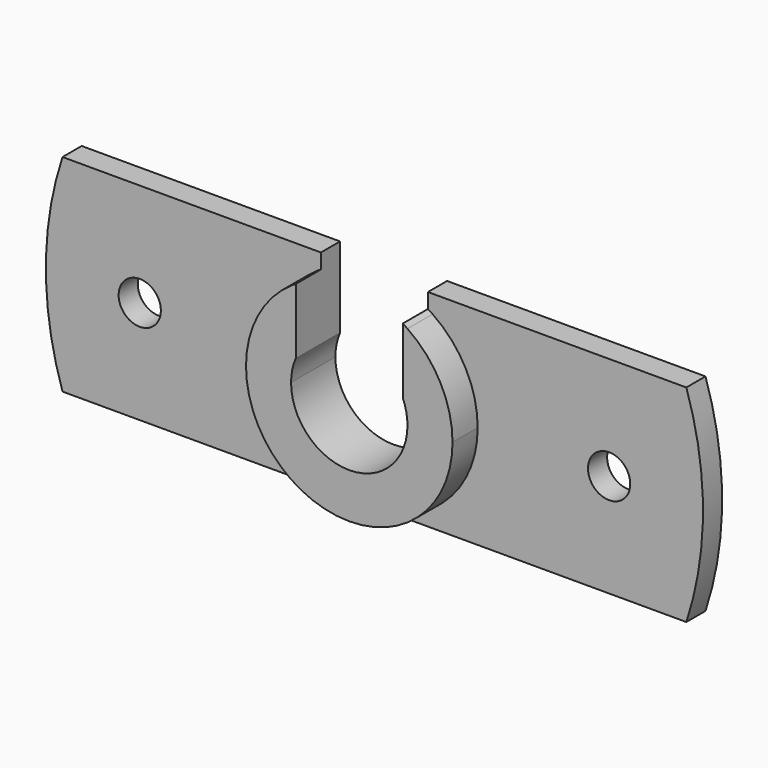
from build123d import *

# Parameters (mm, degrees)
F1_DEPTH = 5.9
F0_R     = 2.25
F2_DEPTH = 2.55


with BuildPart() as f1:
    # F0 (on Front) → F1 (new body)
    with BuildSketch(Plane.XZ):
        with BuildLine():
            ThreePointArc((56.2, 50), (50, 43.8), (43.8, 50))
            Line((43.8, 50), (43.8, 59.0862533533))
            ThreePointArc((43.8, 59.0862533533), (39.4893200295, 46.7556808793), (50, 39))
            ThreePointArc((50, 39), (57.7781745931, 42.2218254069), (61, 50))
            ThreePointArc((61, 50), (59.7262531326, 55.1380930315), (56.2, 59.0862533533))
            Line((56.2, 59.0862533533), (56.2, 50))
        make_face()
        with BuildLine():
            ThreePointArc((55.7, 52.4392621835), (56.0737138556, 51.2449899598), (56.2, 50))
            Line((56.2, 50), (56.2, 59.0862533533))
            ThreePointArc((56.2, 59.0862533533), (55.9521740784, 59.250493162), (55.7, 59.4079753401))
            Line((55.7, 59.4079753401), (55.7, 52.4392621835))
        make_face()
        with BuildLine():
            Line((43.8, 59.0862533533), (43.8, 50))
            ThreePointArc((43.8, 50), (43.9262861444, 51.2449899598), (44.3, 52.4392621835))
            Line((44.3, 52.4392621835), (44.3, 59.4079753401))
            ThreePointArc((44.3, 59.4079753401), (44.0478259216, 59.250493162), (43.8, 59.0862533533))
        make_face()
    extrude(amount=F1_DEPTH)

    # F0 (on Front) → F2 (join)
    with BuildSketch(Plane.XZ):
        with BuildLine():
            ThreePointArc((50, 39), (39.4893200295, 46.7556808793), (43.8, 59.0862533533))
            Line((43.8, 59.0862533533), (43.8, 61))
            Line((43.8, 61), (16.7735045483, 61))
            ThreePointArc((16.7735045483, 61), (15, 50), (16.7735045483, 39))
            Line((16.7735045483, 39), (50, 39))
        make_face()
        with Locations((25, 50)):
            Circle(F0_R, mode=Mode.SUBTRACT)
        with BuildLine():
            Line((43.8, 61), (43.8, 59.0862533533))
            ThreePointArc((43.8, 59.0862533533), (44.0478259216, 59.250493162), (44.3, 59.4079753401))
            Line((44.3, 59.4079753401), (44.3, 61))
            Line((44.3, 61), (43.8, 61))
        make_face()
        with BuildLine():
            ThreePointArc((55.7, 59.4079753401), (55.9521740784, 59.250493162), (56.2, 59.0862533533))
            Line((56.2, 59.0862533533), (56.2, 61))
            Line((56.2, 61), (55.7, 61))
            Line((55.7, 61), (55.7, 59.4079753401))
        make_face()
        with BuildLine():
            Line((56.2, 61), (56.2, 59.0862533533))
            ThreePointArc((56.2, 59.0862533533), (59.7262531326, 55.1380930315), (61, 50))
            ThreePointArc((61, 50), (57.7781745931, 42.2218254069), (50, 39))
            Line((50, 39), (83.2264954517, 39))
            ThreePointArc((83.2264954517, 39), (85, 50), (83.2264954517, 61))
            Line((83.2264954517, 61), (56.2, 61))
        make_face()
        with Locations((75, 50)):
            Circle(F0_R, mode=Mode.SUBTRACT)
    extrude(amount=F2_DEPTH)


solid = f1.part
